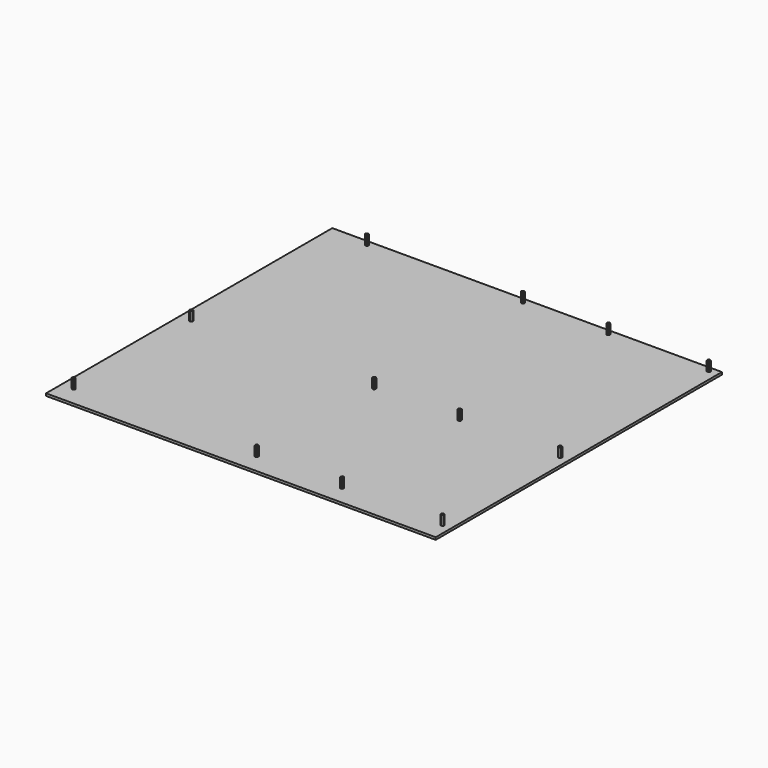
from build123d import *

# Parameters (mm, degrees)
F0_W     = 330
F0_H     = 303
F1_DEPTH = 2
F3_D     = 2
F5_DEPTH = 8


with BuildPart() as f1:
    # F0 (on Top) → F1 (new body)
    with BuildSketch(Plane.XY):
        with Locations((-18.368048, 2.660746)):
            Rectangle(F0_W, F0_H)
    extrude(amount=F1_DEPTH)

    # F3 (through all)
    with Locations(Plane.XY.offset(2)):
        with Locations((-150.348048, 149.610746), (-173.208048, -7.869254), (-18.268048, -132.329254), (-173.208048, -132.329254), (-18.268048, -7.869254), (-18.268048, 149.610746), (139.211952, -132.329254), (54.121952, 149.610746), (139.211952, -7.869254), (139.211952, 149.610746), (54.121952, -132.329254), (54.121952, -7.869254)):
            Hole(F3_D / 2)


with BuildPart() as f5:
    # F4 (on face) → F5 (new body)
    with BuildSketch(Plane.XY.offset(2)):
        Polygon((-172.912444, -130.916473), (-174.283751, -131.366863), (-174.579355, -132.779644), (-173.503653, -133.742036), (-172.132346, -133.291646), (-171.836741, -131.878864), align=None)
        Polygon((-172.09183, -6.954163), (-173.442431, -6.445036), (-174.558649, -7.360127), (-174.324266, -8.784345), (-172.973665, -9.293473), (-171.857447, -8.378382), align=None)
        Polygon((-149.62636, 150.860746), (-151.069736, 150.860746), (-151.791424, 149.610746), (-151.069736, 148.360746), (-149.62636, 148.360746), (-148.904673, 149.610746), align=None)
        Polygon((-17.54636, 150.860746), (-18.989736, 150.860746), (-19.711424, 149.610746), (-18.989736, 148.360746), (-17.54636, 148.360746), (-16.824673, 149.610746), align=None)
        Polygon((53.885579, 148.186856), (55.23689, 148.694096), (55.473263, 150.117986), (54.358325, 151.034635), (53.007014, 150.527395), (52.770641, 149.103506), align=None)
        Polygon((138.097014, 148.694096), (139.448325, 148.186856), (140.563263, 149.103506), (140.32689, 150.527395), (138.975579, 151.034635), (137.860641, 150.117986), align=None)
        Polygon((137.961952, -7.147566), (137.961952, -8.590942), (139.211952, -9.31263), (140.461952, -8.590942), (140.461952, -7.147566), (139.211952, -6.425879), align=None)
        Polygon((53.635385, -6.510363), (52.701834, -7.611188), (53.188401, -8.970079), (54.608519, -9.228146), (55.54207, -8.127321), (55.055503, -6.768429), align=None)
        Polygon((-17.018048, -8.590942), (-17.018048, -7.147566), (-18.268048, -6.425879), (-19.518048, -7.147566), (-19.518048, -8.590942), (-18.268048, -9.31263), align=None)
        Polygon((-17.049446, -131.555729), (-18.328639, -130.887151), (-19.547242, -131.660676), (-19.486651, -133.102779), (-18.207457, -133.771358), (-16.988855, -132.997833), align=None)
        Polygon((53.348696, -131.110481), (52.679835, -132.389526), (53.453091, -133.6083), (54.895207, -133.548028), (55.564069, -132.268982), (54.790813, -131.050208), align=None)
        Polygon((140.275995, -131.353987), (138.899368, -130.920132), (137.835324, -131.895399), (138.147909, -133.304521), (139.524536, -133.738376), (140.588579, -132.763109), align=None)
    extrude(amount=F5_DEPTH)


solid = Compound([f1.part, f5.part])
